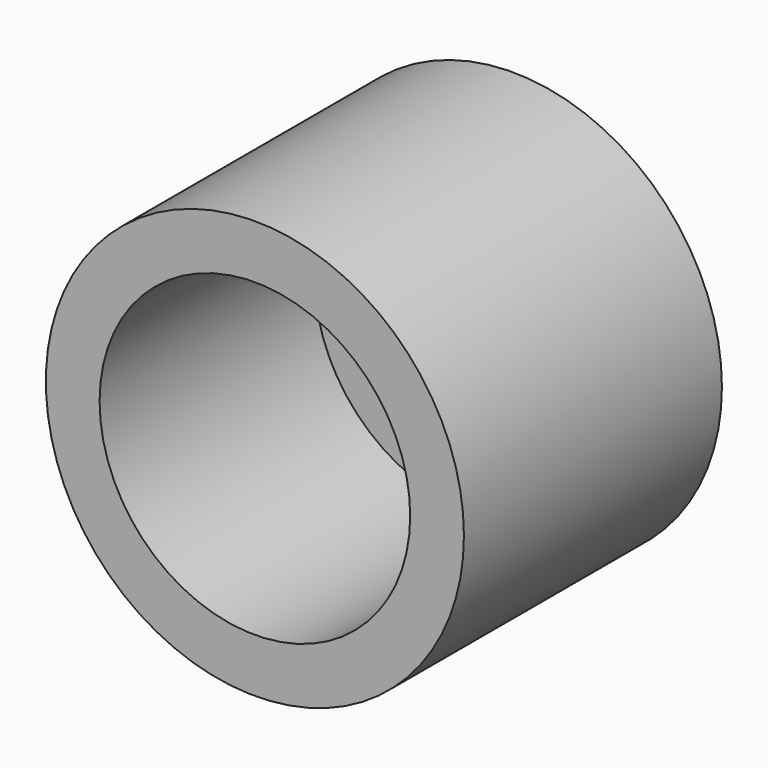
from build123d import *

# Parameters (mm, degrees)
F0_R     = 49.396191
F1_DEPTH = 76.2
F2_R     = 23.861127
F3_DEPTH = 50.8
F4_T     = -12.7


with BuildPart() as f1:
    # F0 (on Front) → F1 (new body)
    with BuildSketch(Plane.XZ):
        Circle(F0_R)
    extrude(amount=F1_DEPTH)

    # F2 (on Front) → F3 (join)
    with BuildSketch(Plane.XZ):
        Circle(F2_R)
    extrude(amount=F3_DEPTH)

    # F4
    f4_openings = [f1.faces().sort_by_distance(p)[0] for p in [
        (0, -76.2, 0),
    ]]
    offset(amount=F4_T, openings=f4_openings)


solid = f1.part
